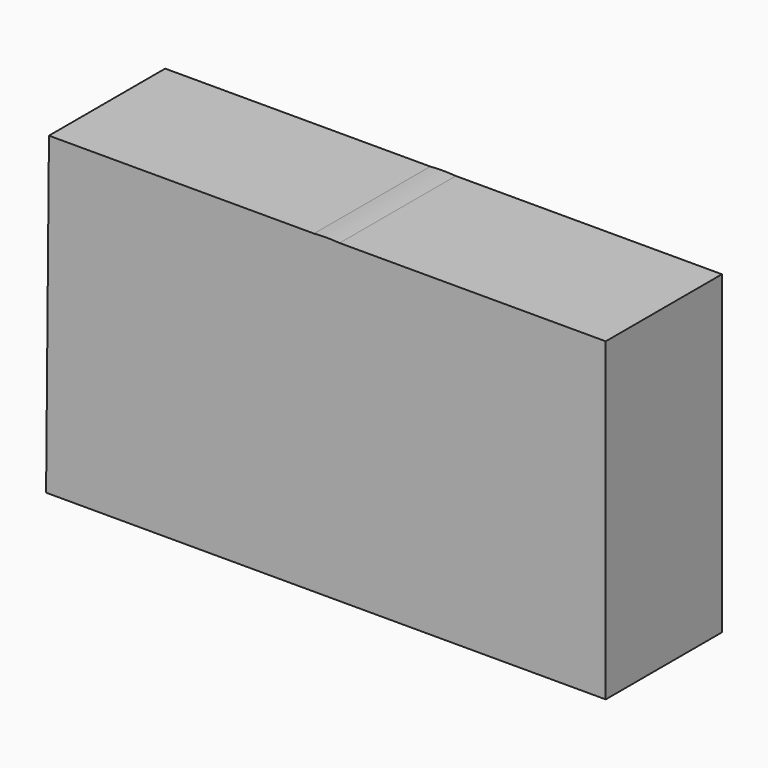
from build123d import *

# Parameters (mm, degrees)
F1_DEPTH = 77.724


with BuildPart() as f1:
    # F0 (on Front) → F1 (new body)
    with BuildSketch(Plane.XZ):
        with BuildLine():
            Line((-6.8313151013, 83.892121911), (-148.7048715353, 83.892121911))
            Line((-148.7048715353, 83.892121911), (-150.2486616373, -84.8236903548))
            Line((-150.2486616373, -84.8236903548), (149.2570340633, -84.8236903548))
            Line((149.2570340633, -84.8236903548), (149.2570340633, 83.892121911))
            Line((149.2570340633, 83.892121911), (6.8313151013, 83.892121911))
            ThreePointArc((6.8313151013, 83.892121911), (61.8851573502, 57.0506992463), (84.169798531, 0))
            ThreePointArc((84.169798531, 0), (-57.0506992463, -61.8851573502), (-6.8313151013, 83.892121911))
        make_face()
        with BuildLine():
            ThreePointArc((6.8313151013, 83.892121911), (0, 84.169798531), (-6.8313151013, 83.892121911))
            Line((-6.8313151013, 83.892121911), (6.8313151013, 83.892121911))
        make_face()
        with BuildLine():
            Line((6.8313151013, 83.892121911), (-6.8313151013, 83.892121911))
            ThreePointArc((-6.8313151013, 83.892121911), (-57.0506992463, -61.8851573502), (84.169798531, 0))
            ThreePointArc((84.169798531, 0), (61.8851573502, 57.0506992463), (6.8313151013, 83.892121911))
        make_face()
    extrude(amount=F1_DEPTH)


solid = f1.part
